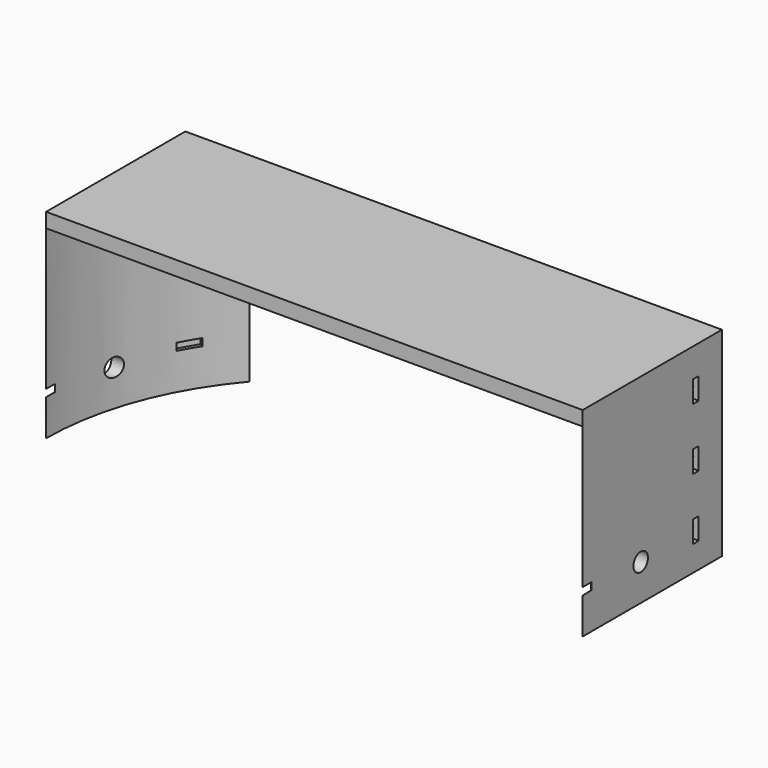
from build123d import *

# Parameters (mm, degrees)
CYLINDER1844_R              = 2.5
CYLINDER1844_DEPTH          = 40
CYLINDER1841_R              = 2.5
CYLINDER1841_DEPTH          = 40
COMPOUND950_PLACEMENT_ANGLE = 90
CYLINDER1843_R              = 2.5
CYLINDER1843_DEPTH          = 40
CYLINDER1845_R              = 2.5
CYLINDER1845_DEPTH          = 40
COMPOUND949_PLACEMENT_ANGLE = 90
CYLINDER1842_R              = 2.5
CYLINDER1842_DEPTH          = 40
CYLINDER1850_R              = 2.5
CYLINDER1850_DEPTH          = 40
CYLINDER1851_R              = 2.5
CYLINDER1851_DEPTH          = 40
CYLINDER1848_R              = 2.5
CYLINDER1848_DEPTH          = 40
CYLINDER1846_R              = 2.5
CYLINDER1846_DEPTH          = 40
CYLINDER1847_R              = 2.5
CYLINDER1847_DEPTH          = 40
BOX851_W                    = 6
BOX851_H                    = 8
BOX851_DEPTH                = 2
BOX851_PLACEMENT_ANGLE      = 30
BOX852_W                    = 6
BOX852_H                    = 8
BOX852_DEPTH                = 2
BOX852_PLACEMENT_ANGLE      = 60
BOX853_W                    = 6
BOX853_H                    = 8
BOX853_DEPTH                = 2
BOX854_W                    = 6
BOX854_H                    = 8
BOX854_DEPTH                = 2
BOX854_PLACEMENT_ANGLE      = 120
BOX855_W                    = 6
BOX855_H                    = 8
BOX855_DEPTH                = 2
BOX855_PLACEMENT_ANGLE      = 150
BOX856_W                    = 6
BOX856_H                    = 8
BOX856_DEPTH                = 2
BOX857_W                    = 6
BOX857_H                    = 8
BOX857_DEPTH                = 2
BOX857_PLACEMENT_ANGLE      = 210
BOX858_W                    = 6
BOX858_H                    = 8
BOX858_DEPTH                = 2
BOX858_PLACEMENT_ANGLE      = 240
BOX859_W                    = 6
BOX859_H                    = 8
BOX859_DEPTH                = 2
BOX860_W                    = 6
BOX860_H                    = 8
BOX860_DEPTH                = 2
BOX860_PLACEMENT_ANGLE      = 60
BOX861_W                    = 6
BOX861_H                    = 8
BOX861_DEPTH                = 2
BOX861_PLACEMENT_ANGLE      = 30
BOX850_W                    = 6
BOX850_H                    = 8
BOX850_DEPTH                = 2
BOX814_W                    = 8
BOX814_H                    = 2
BOX814_DEPTH                = 6
BOX825_W                    = 8
BOX825_H                    = 2
BOX825_DEPTH                = 6
BOX847_W                    = 8
BOX847_H                    = 2
BOX847_DEPTH                = 6
BOX848_W                    = 8
BOX848_H                    = 2
BOX848_DEPTH                = 6
BOX849_W                    = 8
BOX849_H                    = 2
BOX849_DEPTH                = 6
BOX816_W                    = 8
BOX816_H                    = 2
BOX816_DEPTH                = 6
CYLINDER1862_R              = 1.5
CYLINDER1862_DEPTH          = 50
CYLINDER1865_R              = 1.5
CYLINDER1865_DEPTH          = 50
CYLINDER1863_R              = 1.5
CYLINDER1863_DEPTH          = 50
CYLINDER1861_R              = 1.5
CYLINDER1861_DEPTH          = 50
CYLINDER1858_R              = 1.5
CYLINDER1858_DEPTH          = 50
CYLINDER1859_R              = 1.5
CYLINDER1859_DEPTH          = 50
BOX815_W                    = 148
BOX815_H                    = 26
BOX815_DEPTH                = 55
CYLINDER1860_R              = 74
CYLINDER1860_DEPTH          = 51
BOX817_W                    = 148
BOX817_H                    = 74
BOX817_DEPTH                = 55


with BuildPart() as obj1:
    # Cylinder1844 → Cylinder1844 (new body)
    with BuildSketch(Plane(origin=(-86, -10, 69), x_dir=(0, 0, -1), z_dir=(1, 0, 0))):
        Circle(CYLINDER1844_R)
    extrude(amount=CYLINDER1844_DEPTH)


with BuildPart() as compound950:
    # Cylinder1841 → Cylinder1841 (new body)
    with BuildSketch(Plane(origin=(-86, -10, 39), x_dir=(0, 0, -1), z_dir=(1, 0, 0))):
        Circle(CYLINDER1841_R)
    extrude(amount=CYLINDER1841_DEPTH)

    # Compound950: union obj1
    add(obj1.part)


with BuildPart() as compound950_1:
    # Compound950 placement: moved
    add(compound950.part.moved(Location((-21.5, 0, 0))).rotate(Axis((-21.5, 0, 0), (0, 0, 1)), COMPOUND950_PLACEMENT_ANGLE))


with BuildPart() as obj2:
    # Cylinder1843 → Cylinder1843 (new body)
    with BuildSketch(Plane(origin=(-86, -10, 69), x_dir=(0, 0, -1), z_dir=(1, 0, 0))):
        Circle(CYLINDER1843_R)
    extrude(amount=CYLINDER1843_DEPTH)


with BuildPart() as compound975:
    # Cylinder1845 → Cylinder1845 (new body)
    with BuildSketch(Plane(origin=(-86, -10, 39), x_dir=(0, 0, -1), z_dir=(1, 0, 0))):
        Circle(CYLINDER1845_R)
    extrude(amount=CYLINDER1845_DEPTH)

    # Compound949: union obj2
    add(obj2.part)


with BuildPart() as compound975_1:
    # Compound949 placement: moved
    add(compound975.part.moved(Location((1.5, 0, 0))).rotate(Axis((1.5, 0, 0), (0, 0, 1)), COMPOUND949_PLACEMENT_ANGLE))

    # Compound975: union Compound950
    add(compound950_1.part)


with BuildPart() as obj3:
    # Cylinder1842 → Cylinder1842 (new body)
    with BuildSketch(Plane(origin=(-86, 20, 39), x_dir=(0, 0, -1), z_dir=(1, 0, 0))):
        Circle(CYLINDER1842_R)
    extrude(amount=CYLINDER1842_DEPTH)


with BuildPart() as obj4:
    # Cylinder1850 → Cylinder1850 (new body)
    with BuildSketch(Plane(origin=(-86, -10, 69), x_dir=(0, 0, -1), z_dir=(1, 0, 0))):
        Circle(CYLINDER1850_R)
    extrude(amount=CYLINDER1850_DEPTH)


with BuildPart() as compound974:
    # Cylinder1851 → Cylinder1851 (new body)
    with BuildSketch(Plane(origin=(-86, -10, 39), x_dir=(0, 0, -1), z_dir=(1, 0, 0))):
        Circle(CYLINDER1851_R)
    extrude(amount=CYLINDER1851_DEPTH)

    # Compound974: union obj3, obj4
    add(obj3.part)
    add(obj4.part)


with BuildPart() as mirror008:
    # mirror008: instance of Compound974
    add(compound974.part.mirror(Plane(origin=(0, 0, 0), x_dir=(0, -1, 0), z_dir=(1, 0, 0))))


with BuildPart() as obj5:
    # Cylinder1848 → Cylinder1848 (new body)
    with BuildSketch(Plane(origin=(-86, 20, 39), x_dir=(0, 0, -1), z_dir=(1, 0, 0))):
        Circle(CYLINDER1848_R)
    extrude(amount=CYLINDER1848_DEPTH)


with BuildPart() as obj6:
    # Cylinder1846 → Cylinder1846 (new body)
    with BuildSketch(Plane(origin=(-86, -10, 69), x_dir=(0, 0, -1), z_dir=(1, 0, 0))):
        Circle(CYLINDER1846_R)
    extrude(amount=CYLINDER1846_DEPTH)


with BuildPart() as compound948:
    # Cylinder1847 → Cylinder1847 (new body)
    with BuildSketch(Plane(origin=(-86, -10, 39), x_dir=(0, 0, -1), z_dir=(1, 0, 0))):
        Circle(CYLINDER1847_R)
    extrude(amount=CYLINDER1847_DEPTH)

    # Compound947: union obj5, obj6
    add(obj5.part)
    add(obj6.part)

    # Compound948: union Compound975, mirror008
    add(compound975_1.part)
    add(mirror008.part)


with BuildPart() as krychle851:
    # Box851 → Box851 (new body)
    with BuildSketch(Plane.XY):
        with Locations((3, 4)):
            Rectangle(BOX851_W, BOX851_H)
    extrude(amount=BOX851_DEPTH)


with BuildPart() as krychle851_1:
    # Box851 placement: moved
    add(krychle851.part.moved(Location((34.901924, -66.451905, 39))).rotate(Axis((34.901924, -66.451905, 39), (0, 0, 1)), BOX851_PLACEMENT_ANGLE))


with BuildPart() as krychle852:
    # Box852 → Box852 (new body)
    with BuildSketch(Plane.XY):
        with Locations((3, 4)):
            Rectangle(BOX852_W, BOX852_H)
    extrude(amount=BOX852_DEPTH)


with BuildPart() as krychle852_1:
    # Box852 placement: moved
    add(krychle852.part.moved(Location((63.451905, -40.098076, 39))).rotate(Axis((63.451905, -40.098076, 39), (0, 0, 1)), BOX852_PLACEMENT_ANGLE))


with BuildPart() as krychle853:
    # Box853 → Box853 (new body)
    with BuildSketch(Plane(origin=(75, -3, 39), x_dir=(0, 1, 0), z_dir=(0, 0, 1))):
        with Locations((3, 4)):
            Rectangle(BOX853_W, BOX853_H)
    extrude(amount=BOX853_DEPTH)


with BuildPart() as krychle854:
    # Box854 → Box854 (new body)
    with BuildSketch(Plane.XY):
        with Locations((3, 4)):
            Rectangle(BOX854_W, BOX854_H)
    extrude(amount=BOX854_DEPTH)


with BuildPart() as krychle854_1:
    # Box854 placement: moved
    add(krychle854.part.moved(Location((66.451905, 34.901924, 39))).rotate(Axis((66.451905, 34.901924, 39), (0, 0, 1)), BOX854_PLACEMENT_ANGLE))


with BuildPart() as krychle855:
    # Box855 → Box855 (new body)
    with BuildSketch(Plane.XY):
        with Locations((3, 4)):
            Rectangle(BOX855_W, BOX855_H)
    extrude(amount=BOX855_DEPTH)


with BuildPart() as krychle855_1:
    # Box855 placement: moved
    add(krychle855.part.moved(Location((40.098076, 63.451905, 39))).rotate(Axis((40.098076, 63.451905, 39), (0, 0, 1)), BOX855_PLACEMENT_ANGLE))


with BuildPart() as krychle856:
    # Box856 → Box856 (new body)
    with BuildSketch(Plane(origin=(3, 75, 39), x_dir=(-1, 0, 0), z_dir=(0, 0, 1))):
        with Locations((3, 4)):
            Rectangle(BOX856_W, BOX856_H)
    extrude(amount=BOX856_DEPTH)


with BuildPart() as krychle857:
    # Box857 → Box857 (new body)
    with BuildSketch(Plane.XY):
        with Locations((3, 4)):
            Rectangle(BOX857_W, BOX857_H)
    extrude(amount=BOX857_DEPTH)


with BuildPart() as krychle857_1:
    # Box857 placement: moved
    add(krychle857.part.moved(Location((-34.901924, 66.451905, 39))).rotate(Axis((-34.901924, 66.451905, 39), (0, 0, 1)), BOX857_PLACEMENT_ANGLE))


with BuildPart() as krychle858:
    # Box858 → Box858 (new body)
    with BuildSketch(Plane.XY):
        with Locations((3, 4)):
            Rectangle(BOX858_W, BOX858_H)
    extrude(amount=BOX858_DEPTH)


with BuildPart() as krychle858_1:
    # Box858 placement: moved
    add(krychle858.part.moved(Location((-63.451905, 40.098076, 39))).rotate(Axis((-63.451905, 40.098076, 39), (0, 0, 1)), BOX858_PLACEMENT_ANGLE))


with BuildPart() as krychle859:
    # Box859 → Box859 (new body)
    with BuildSketch(Plane(origin=(-75, 3, 39), x_dir=(0, -1, 0), z_dir=(0, 0, 1))):
        with Locations((3, 4)):
            Rectangle(BOX859_W, BOX859_H)
    extrude(amount=BOX859_DEPTH)


with BuildPart() as krychle860:
    # Box860 → Box860 (new body)
    with BuildSketch(Plane.XY):
        with Locations((3, 4)):
            Rectangle(BOX860_W, BOX860_H)
    extrude(amount=BOX860_DEPTH)


with BuildPart() as krychle860_1:
    # Box860 placement: moved
    add(krychle860.part.moved(Location((-66.451905, -34.901924, 39))).rotate(Axis((-66.451905, -34.901924, 39), (0, 0, -1)), BOX860_PLACEMENT_ANGLE))


with BuildPart() as krychle861:
    # Box861 → Box861 (new body)
    with BuildSketch(Plane.XY):
        with Locations((3, 4)):
            Rectangle(BOX861_W, BOX861_H)
    extrude(amount=BOX861_DEPTH)


with BuildPart() as krychle861_1:
    # Box861 placement: moved
    add(krychle861.part.moved(Location((-40.098076, -63.451905, 39))).rotate(Axis((-40.098076, -63.451905, 39), (0, 0, -1)), BOX861_PLACEMENT_ANGLE))


with BuildPart() as compound968:
    # Box850 → Box850 (new body)
    with BuildSketch(Plane(origin=(-3, -75, 39), x_dir=(1, 0, 0), z_dir=(0, 0, 1))):
        with Locations((3, 4)):
            Rectangle(BOX850_W, BOX850_H)
    extrude(amount=BOX850_DEPTH)

    # Compound968: union Krychle851, Krychle852, Krychle853, Krychle854, Krychle855, Krychle856, Krychle857, Krychle858, Krychle859, Krychle860, Krychle861
    add(krychle851_1.part)
    add(krychle852_1.part)
    add(krychle853.part)
    add(krychle854_1.part)
    add(krychle855_1.part)
    add(krychle856.part)
    add(krychle857_1.part)
    add(krychle858_1.part)
    add(krychle859.part)
    add(krychle860_1.part)
    add(krychle861_1.part)


with BuildPart() as krychle814:
    # Box814 → Box814 (new body)
    with BuildSketch(Plane(origin=(67, 38, 36), x_dir=(1, 0, 0), z_dir=(0, 0, 1))):
        with Locations((4, 1)):
            Rectangle(BOX814_W, BOX814_H)
    extrude(amount=BOX814_DEPTH)


with BuildPart() as krychle825:
    # Box825 → Box825 (new body)
    with BuildSketch(Plane(origin=(67, 38, 70), x_dir=(1, 0, 0), z_dir=(0, 0, 1))):
        with Locations((4, 1)):
            Rectangle(BOX825_W, BOX825_H)
    extrude(amount=BOX825_DEPTH)


with BuildPart() as krychle847:
    # Box847 → Box847 (new body)
    with BuildSketch(Plane(origin=(-75, 38, 70), x_dir=(1, 0, 0), z_dir=(0, 0, 1))):
        with Locations((4, 1)):
            Rectangle(BOX847_W, BOX847_H)
    extrude(amount=BOX847_DEPTH)


with BuildPart() as krychle848:
    # Box848 → Box848 (new body)
    with BuildSketch(Plane(origin=(-75, 38, 53), x_dir=(1, 0, 0), z_dir=(0, 0, 1))):
        with Locations((4, 1)):
            Rectangle(BOX848_W, BOX848_H)
    extrude(amount=BOX848_DEPTH)


with BuildPart() as krychle849:
    # Box849 → Box849 (new body)
    with BuildSketch(Plane(origin=(67, 38, 53), x_dir=(1, 0, 0), z_dir=(0, 0, 1))):
        with Locations((4, 1)):
            Rectangle(BOX849_W, BOX849_H)
    extrude(amount=BOX849_DEPTH)


with BuildPart() as compound970:
    # Box816 → Box816 (new body)
    with BuildSketch(Plane(origin=(-75, 38, 36), x_dir=(1, 0, 0), z_dir=(0, 0, 1))):
        with Locations((4, 1)):
            Rectangle(BOX816_W, BOX816_H)
    extrude(amount=BOX816_DEPTH)

    # Compound970: union Krychle814, Krychle825, Krychle847, Krychle848, Krychle849
    add(krychle814.part)
    add(krychle825.part)
    add(krychle847.part)
    add(krychle848.part)
    add(krychle849.part)


with BuildPart() as obj7:
    # Cylinder1862 → Cylinder1862 (new body)
    with BuildSketch(Plane(origin=(71, 80, 39), x_dir=(1, 0, 0), z_dir=(0, -1, 0))):
        Circle(CYLINDER1862_R)
    extrude(amount=CYLINDER1862_DEPTH)


with BuildPart() as obj8:
    # Cylinder1865 → Cylinder1865 (new body)
    with BuildSketch(Plane(origin=(-71, 80, 39), x_dir=(1, 0, 0), z_dir=(0, -1, 0))):
        Circle(CYLINDER1865_R)
    extrude(amount=CYLINDER1865_DEPTH)


with BuildPart() as obj9:
    # Cylinder1863 → Cylinder1863 (new body)
    with BuildSketch(Plane(origin=(71, 80, 73), x_dir=(1, 0, 0), z_dir=(0, -1, 0))):
        Circle(CYLINDER1863_R)
    extrude(amount=CYLINDER1863_DEPTH)


with BuildPart() as obj10:
    # Cylinder1861 → Cylinder1861 (new body)
    with BuildSketch(Plane(origin=(-71, 80, 56), x_dir=(1, 0, 0), z_dir=(0, -1, 0))):
        Circle(CYLINDER1861_R)
    extrude(amount=CYLINDER1861_DEPTH)


with BuildPart() as obj11:
    # Cylinder1858 → Cylinder1858 (new body)
    with BuildSketch(Plane(origin=(71, 80, 56), x_dir=(1, 0, 0), z_dir=(0, -1, 0))):
        Circle(CYLINDER1858_R)
    extrude(amount=CYLINDER1858_DEPTH)


with BuildPart() as compound969:
    # Cylinder1859 → Cylinder1859 (new body)
    with BuildSketch(Plane(origin=(-71, 80, 73), x_dir=(1, 0, 0), z_dir=(0, -1, 0))):
        Circle(CYLINDER1859_R)
    extrude(amount=CYLINDER1859_DEPTH)

    # Compound969: union obj7, obj8, obj9, obj10, obj11
    add(obj7.part)
    add(obj8.part)
    add(obj9.part)
    add(obj10.part)
    add(obj11.part)


with BuildPart() as krychle815:
    # Box815 → Box815 (new body)
    with BuildSketch(Plane(origin=(-74, 48, 29), x_dir=(1, 0, 0), z_dir=(0, 0, 1))):
        with Locations((74, 13)):
            Rectangle(BOX815_W, BOX815_H)
    extrude(amount=BOX815_DEPTH)


with BuildPart() as obj12:
    # Cylinder1860 → Cylinder1860 (new body)
    with BuildSketch(Plane.XY.offset(29)):
        Circle(CYLINDER1860_R)
    extrude(amount=CYLINDER1860_DEPTH)


with BuildPart() as cut600:
    # Box817 → Box817 (new body)
    with BuildSketch(Plane(origin=(-74, 0, 29), x_dir=(1, 0, 0), z_dir=(0, 0, 1))):
        with Locations((74, 37)):
            Rectangle(BOX817_W, BOX817_H)
    extrude(amount=BOX817_DEPTH)

    # Cut615: cut obj12
    add(obj12.part, mode=Mode.SUBTRACT)

    # Cut616: cut Krychle815
    add(krychle815.part, mode=Mode.SUBTRACT)

    # Cut617: cut Compound969
    add(compound969.part, mode=Mode.SUBTRACT)

    # Cut618: cut Compound970
    add(compound970.part, mode=Mode.SUBTRACT)

    # Cut598: cut Compound968
    add(compound968.part, mode=Mode.SUBTRACT)

    # Cut600: cut Compound948
    add(compound948.part, mode=Mode.SUBTRACT)


solid = cut600.part
